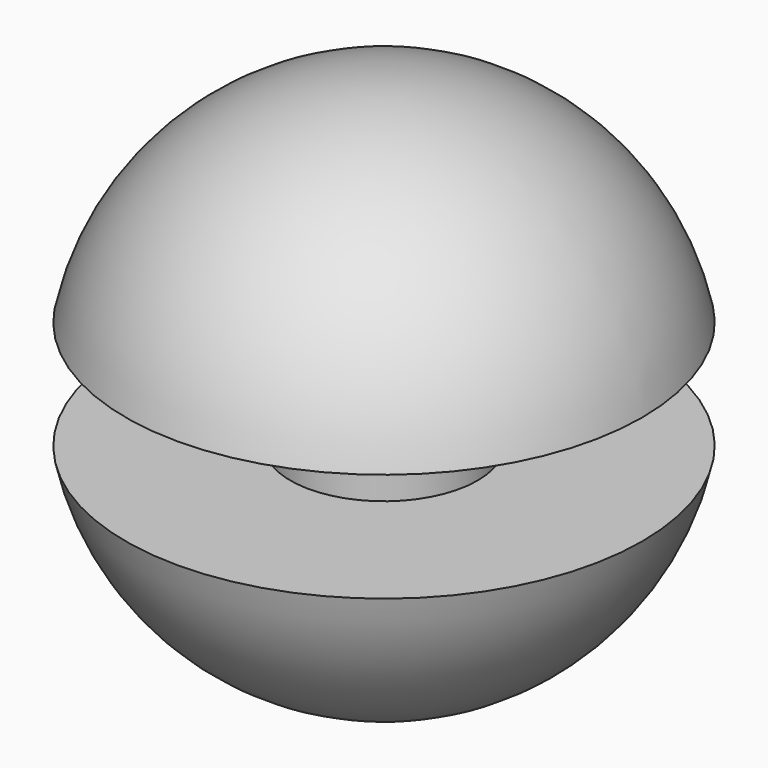
from build123d import *

# Parameters (mm, degrees)
F2_W = 55.769581
F2_H = 25.4


with BuildPart() as f1:
    # F0 (on Front) → F1 (revolve)
    with BuildSketch(Plane.XZ):
        with BuildLine():
            Line((0, 61.486642), (0, -61.486642))
            ThreePointArc((0, -61.486642), (61.486642, 0), (0, 61.486642))
        make_face()
    revolve(axis=Axis((0, 0, 0), (0, 0, -1)))

    # F2 (on Front) → F3 (revolve, cut)
    with BuildSketch(Plane.XZ):
        with Locations((49.695667, 0)):
            Rectangle(F2_W, F2_H)
    revolve(axis=Axis((0, 0, -2.760873), (0, 0, -1)), mode=Mode.SUBTRACT)


solid = f1.part
